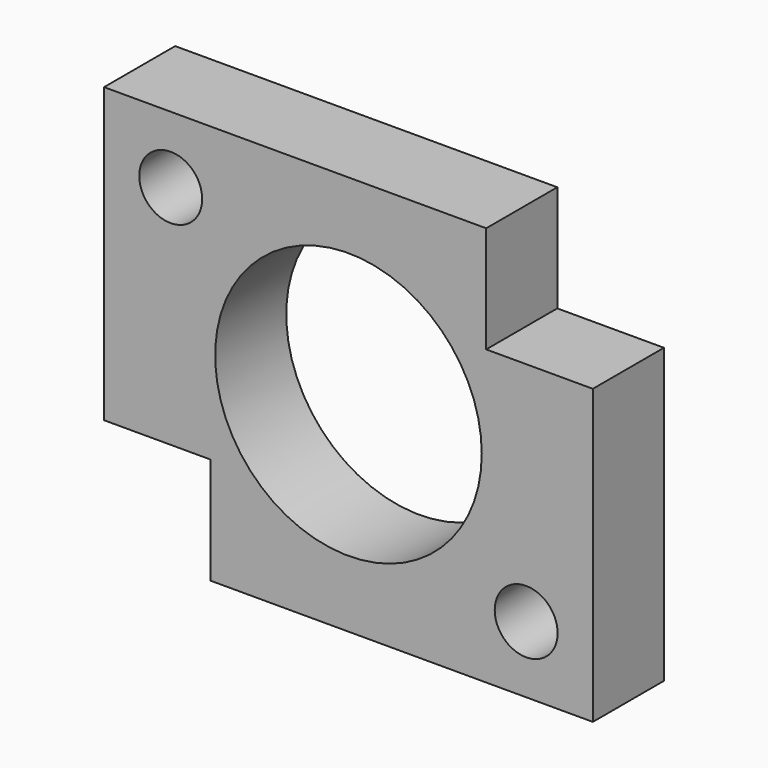
from build123d import *

# Parameters (mm, degrees)
F0_W     = 34.925
F0_H     = 28.575
F0_R     = 9.525
F1_DEPTH = 3.175
F3_D     = 4.4958
F4_W     = 7.62
F4_H     = 7.62
F5_DEPTH = 6.351


with BuildPart() as f1:
    # F0 (on Front) → F1 (new body, symmetric)
    with BuildSketch(Plane.XZ):
        Rectangle(F0_W, F0_H)
        Circle(F0_R, mode=Mode.SUBTRACT)
    extrude(amount=F1_DEPTH, both=True)

    # F3 (through all)
    with Locations(Plane.XZ.offset(3.175)):
        with Locations((-12.7, 9.525), (12.7, -9.525)):
            Hole(F3_D / 2)

    # F4 (on face) → F5 (cut, through all)
    with BuildSketch(Plane.XZ.offset(3.175)):
        with Locations((-13.6525, -10.4775)):
            Rectangle(F4_W, F4_H)
        with Locations((13.6525, 10.4775)):
            Rectangle(F4_W, F4_H)
    extrude(amount=-F5_DEPTH, mode=Mode.SUBTRACT)


solid = f1.part
